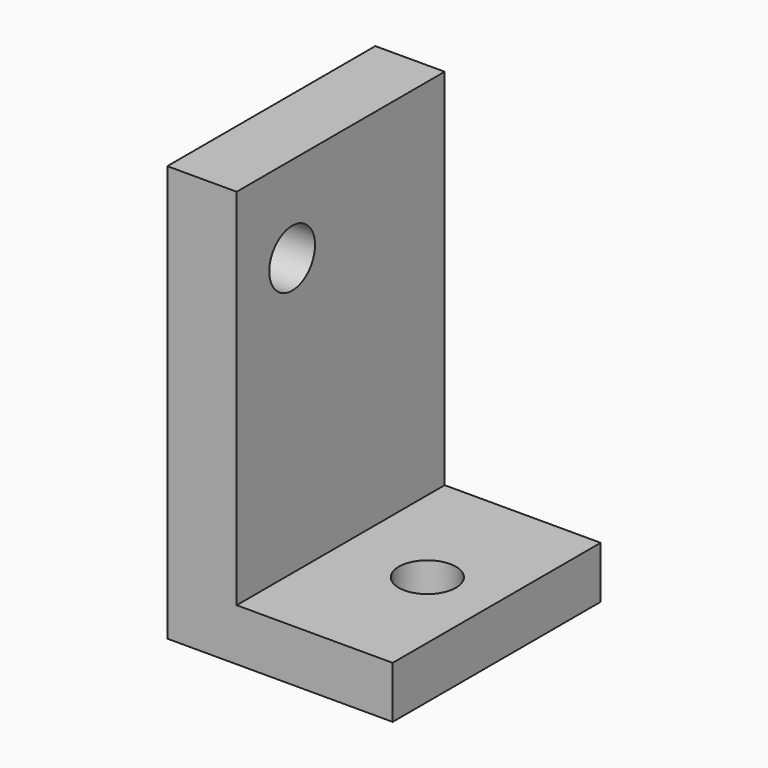
from build123d import *

# Parameters (mm, degrees)
F1_DEPTH = 30
F3_D     = 6.6
F5_D     = 6.6
F6_D     = 4.2
F6_DEPTH = 14
F6_TIP   = 1.2618073


with BuildPart() as f1:
    # F0 (on Front) → F1 (new body)
    with BuildSketch(Plane.XZ):
        Polygon((8, 48), (0, 48), (0, 0), (26, 0), (26, 6), (8, 6), align=None)
    extrude(amount=F1_DEPTH)

    # F3 (through all)
    with Locations(Plane(origin=(0, 0, 0), x_dir=(0, -1, 0), z_dir=(-1, 0, 0))):
        with Locations((22, 38)):
            Hole(F3_D / 2)

    # F5 (through all)
    with Locations(Plane(origin=(0, 0, 0), x_dir=(1, 0, 0), z_dir=(0, 0, -1))):
        with Locations((18, 15)):
            Hole(F5_D / 2)

    # F6
    with Locations(Plane(origin=(0, 0, 0), x_dir=(1, 0, 0), z_dir=(0, 0, -1))):
        with Locations((4, 4), (4, 19)):
            Hole(F6_D / 2, depth=F6_DEPTH)
            with Locations((0, 0, -(F6_DEPTH + F6_TIP / 2))):  # 118° drill point
                Cone(0, F6_D / 2, F6_TIP, mode=Mode.SUBTRACT)


solid = f1.part
